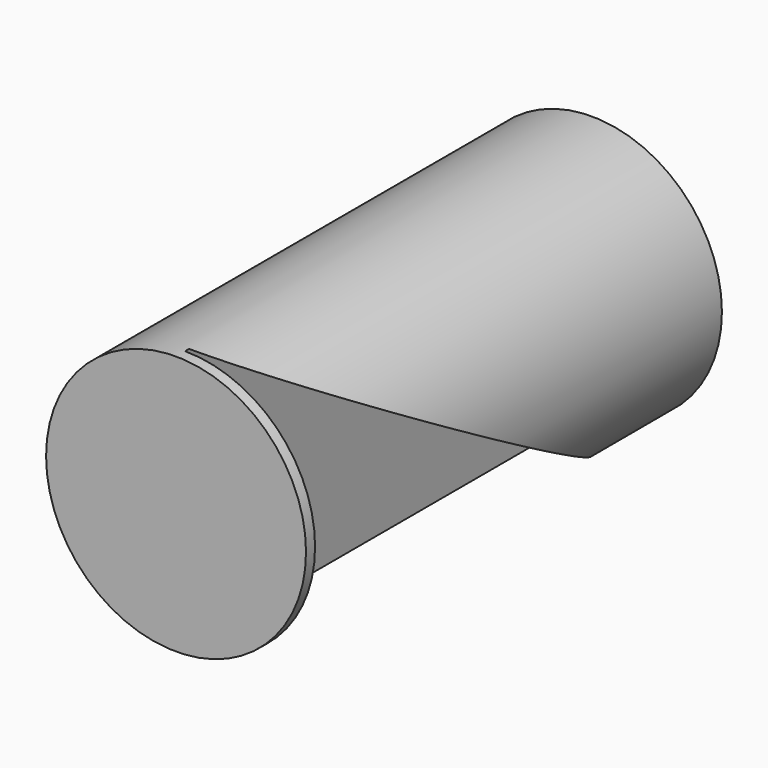
from build123d import *

# Parameters (mm, degrees)
F0_R     = 10
F1_DEPTH = 40
F4_DEPTH = 80


with BuildPart() as f1:
    # F0 (on Front) → F1 (new body)
    with BuildSketch(Plane.XZ):
        Circle(F0_R)
    extrude(amount=F1_DEPTH)

    # F3 (on Right) → F4 (cut)
    with BuildSketch(Plane.YZ):
        Polygon((-3.335574, -10.446315), (-39.129482, 10.219308), (-39.129482, -10.446315), align=None)
    extrude(amount=F4_DEPTH, mode=Mode.SUBTRACT)


solid = f1.part
